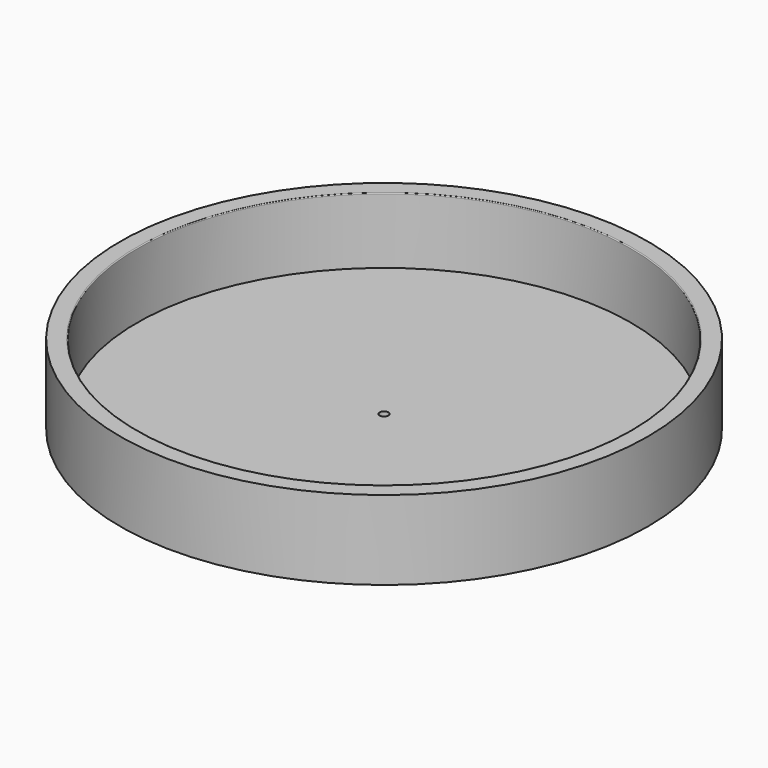
from build123d import *

# Parameters (mm, degrees)
F0_R     = 60
F1_DEPTH = 3
F2_R     = 60
F2_R_2   = 56.15
F3_DEPTH = 15
F5_D     = 2
F6_R     = 0.2


with BuildPart() as f1:
    # F0 (on Top) → F1 (new body)
    with BuildSketch(Plane.XY):
        Circle(F0_R)
    extrude(amount=F1_DEPTH)

    # F2 (on face) → F3 (join)
    with BuildSketch(Plane.XY.offset(3)):
        Circle(F2_R)
        Circle(F2_R_2, mode=Mode.SUBTRACT)
    extrude(amount=F3_DEPTH)

    # F5 (through all)
    with Locations(Plane(origin=(0, 0, 0), x_dir=(1, 0, 0), z_dir=(0, 0, -1))):
        with Locations((0, 0)):
            Hole(F5_D / 2)

    # F6
    f6_edges = [f1.edges().sort_by_distance(p)[0] for p in [
        (-56.15, 0, 18),
    ]]
    fillet(f6_edges, radius=F6_R)


solid = f1.part
